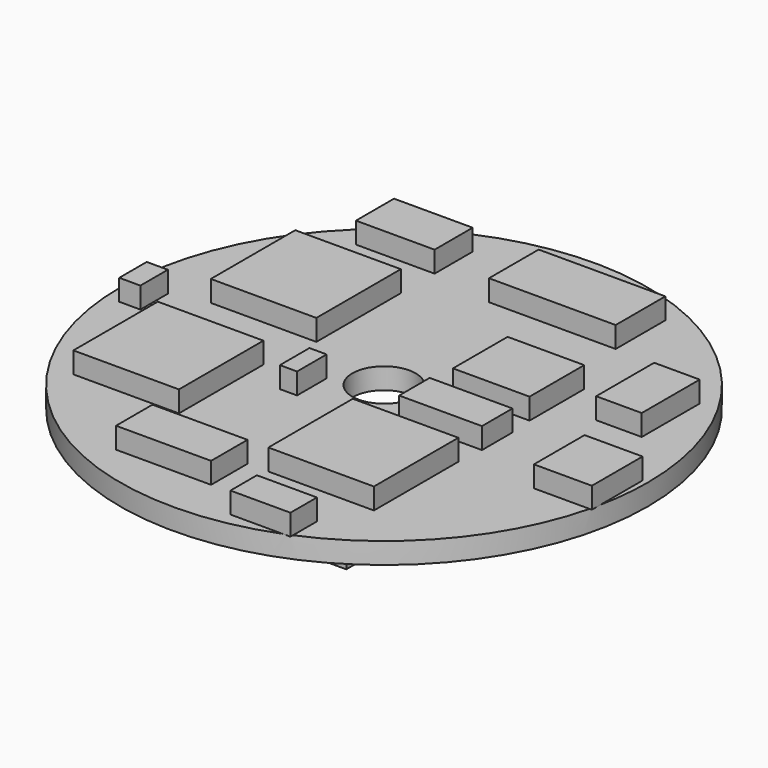
from build123d import *

# Parameters (mm, degrees)
F0_R     = 12.5
F1_DEPTH = 1
F2_W     = 5
F2_H     = 5
F2_W_2   = 3.627453
F2_H_2   = 3.235293
F2_W_3   = 6
F2_H_3   = 2.941177
F2_W_4   = 2.745098
F2_H_4   = 3
F2_W_5   = 3.72549
F2_H_5   = 2.254901
F2_W_6   = 4.502999
F2_H_6   = 2.156863
F2_W_7   = 2.843137
F2_H_7   = 1.568628
F2_W_8   = 2.156863
F2_H_8   = 3.431373
F2_W_9   = 3.921569
F2_H_9   = 1.808301
F2_W_10  = 1.00111
F2_H_10  = 1.626806
F2_W_11  = 0.813403
F2_H_11  = 1.751944
F3_DEPTH = 1
F4_W     = 2.405281
F4_H     = 4.543311
F4_W_2   = 5.166902
F4_H_2   = 2.227113
F4_W_3   = 2.316197
F4_H_3   = 4.097889
F4_W_4   = 5.077818
F4_H_4   = 2.048944
F4_W_5   = 1.95986
F4_H_5   = 1.425353
F5_DEPTH = 1
F7_D     = 3


with BuildPart() as f1:
    # F0 (on Top) → F1 (new body)
    with BuildSketch(Plane.XY):
        Circle(F0_R)
    extrude(amount=F1_DEPTH)

    # F2 (on face) → F3 (join)
    with BuildSketch(Plane.XY.offset(1)):
        with Locations((-7.002999, -4.014183)):
            Rectangle(F2_W, F2_H)
        with Locations((3.487197, -5.58281)):
            Rectangle(F2_W, F2_H)
        with Locations((-6.610843, 3.632876)):
            Rectangle(F2_W, F2_H)
        with Locations((4.173471, 2.750522)):
            Rectangle(F2_W_2, F2_H_2)
        with Locations((1.889157, 9.074051)):
            Rectangle(F2_W_3, F2_H_3)
        with Locations((10.872549, -1.5)):
            Rectangle(F2_W_4, F2_H_4)
        with Locations((-5.973588, 9.260326)):
            Rectangle(F2_W_5, F2_H_5)
        with Locations((-2.251499, -9.161241)):
            Rectangle(F2_W_6, F2_H_6)
        with Locations((3.467588, -10.867124)):
            Rectangle(F2_W_7, F2_H_7)
        with Locations((8.967588, 4.417189)):
            Rectangle(F2_W_8, F2_H_8)
        with Locations((4.124451, -0.90415)):
            Rectangle(F2_W_9, F2_H_9)
        with Locations((-11.311609, -0.098308)):
            Rectangle(F2_W_10, F2_H_10)
        with Locations((-2.395462, -1.787683)):
            Rectangle(F2_W_11, F2_H_11)
    extrude(amount=F3_DEPTH)

    # F4 (on face) → F5 (join)
    with BuildSketch(Plane(origin=(0, 0, 0), x_dir=(1, 0, 0), z_dir=(0, 0, -1))):
        with Locations((-7.670486, 1.073175)):
            Rectangle(F4_W, F4_H)
        with Locations((-1.211858, -5.162741)):
            Rectangle(F4_W_2, F4_H_2)
        with Locations((8.498355, 0.850464)):
            Rectangle(F4_W_3, F4_H_3)
        with Locations((-0.45464, 6.418247)):
            Rectangle(F4_W_4, F4_H_4)
        with Locations((4.756806, 8.689903)):
            Rectangle(F4_W_5, F4_H_5)
        Polygon((8.58744, -5.162742), (4.756805, -7.434397), (5.306815, -8.613397), (9.247805, -6.276298), align=None)
        Polygon((-4.953409, -8.613397), (-8.427706, -4.049185), (-9.972012, -5.162742), (-6.467846, -9.766193), align=None)
    extrude(amount=F5_DEPTH)

    # F7 (through all)
    with Locations(Plane.XY.offset(1)):
        with Locations((0, 0)):
            Hole(F7_D / 2)


solid = f1.part
